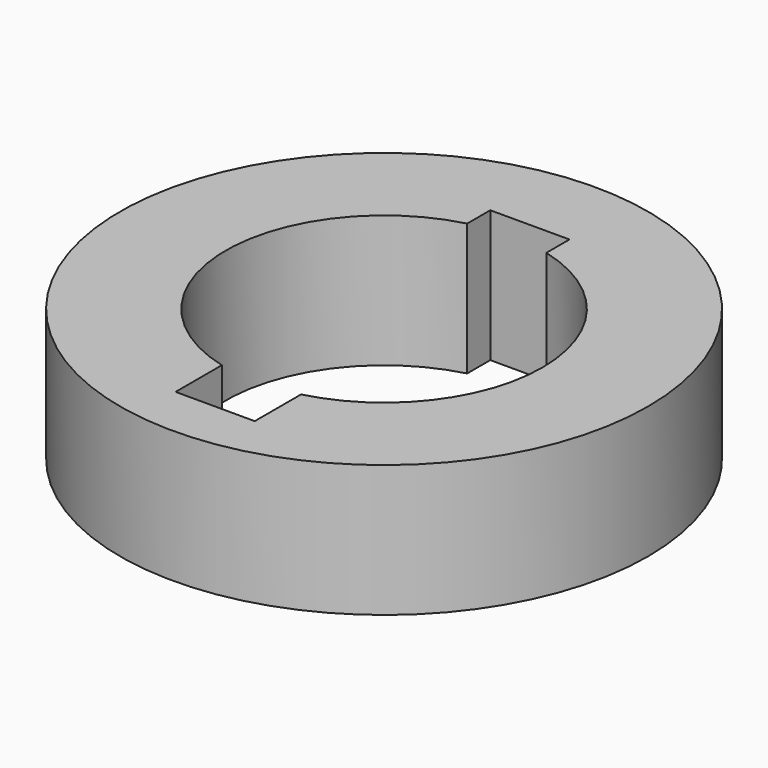
from build123d import *

# Parameters (mm, degrees)
F0_R     = 12.7
F1_DEPTH = 6.35
F2_W     = 3.81
F2_H     = 1.39192
F3_DEPTH = 6.35


with BuildPart() as f1:
    # F0 (on Top) → F1 (new body)
    with BuildSketch(Plane.XY):
        Circle(F0_R)
        with BuildLine():
            ThreePointArc((1.905, 7.378033), (6.024139, 4.666278), (7.62, 0))
            ThreePointArc((7.62, 0), (6.024139, -4.666278), (1.905, -7.378033))
            Line((1.905, -7.378033), (1.905, -10.16))
            Line((1.905, -10.16), (-1.905, -10.16))
            Line((-1.905, -10.16), (-1.905, -7.378033))
            ThreePointArc((-1.905, -7.378033), (-7.62, 0), (-1.905, 7.378033))
            Line((-1.905, 7.378033), (-1.905, 10.16))
            Line((-1.905, 10.16), (1.905, 10.16))
            Line((1.905, 10.16), (1.905, 7.378033))
        make_face(mode=Mode.SUBTRACT)
    extrude(amount=F1_DEPTH)

    # F2 (on face) → F3 (join)
    with BuildSketch(Plane.XY.offset(6.35)):
        with Locations((0, 9.46404)):
            Rectangle(F2_W, F2_H)
    extrude(amount=-F3_DEPTH)


solid = f1.part
